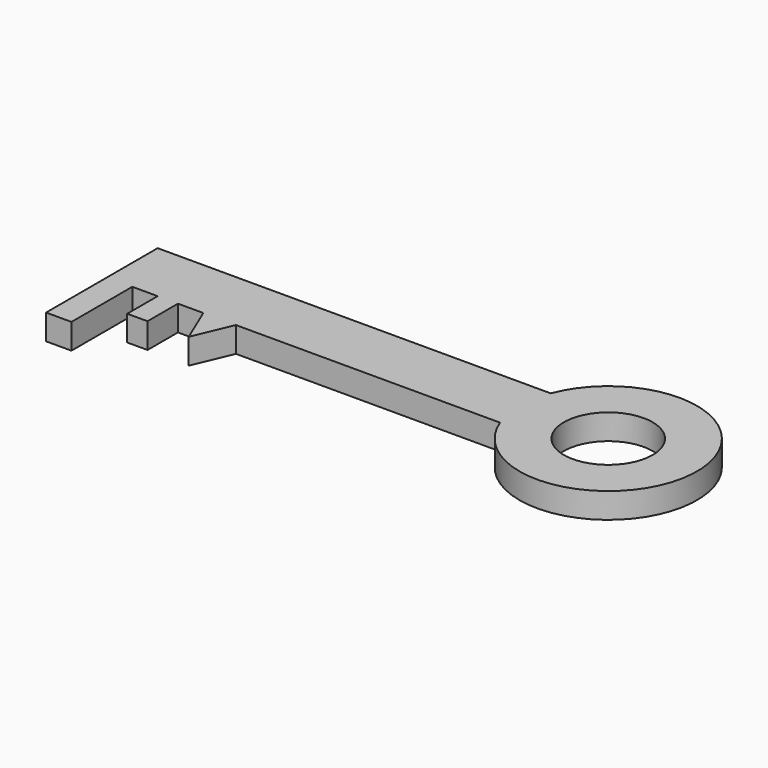
from build123d import *

# Parameters (mm, degrees)
F0_R     = 17.5
F1_DEPTH = 10


with BuildPart() as f1:
    # F0 (on Top) → F1 (new body)
    with BuildSketch(Plane.XY):
        with BuildLine():
            Line((49.705599, 12.375107), (-105.294401, 12.375107))
            Line((-105.294401, 12.375107), (-105.294401, -12.624893))
            Line((-105.294401, -12.624893), (-105.294401, -42.624893))
            Line((-105.294401, -42.624893), (-95.294401, -42.624893))
            Line((-95.294401, -42.624893), (-95.294401, -12.624893))
            Line((-95.294401, -12.624893), (-85.294401, -12.624893))
            Line((-85.294401, -12.624893), (-85.294401, -27.624893))
            Line((-85.294401, -27.624893), (-77.294401, -27.624893))
            Line((-77.294401, -27.624893), (-77.294401, -12.624893))
            Line((-77.294401, -12.624893), (-67.294401, -12.624893))
            Line((-67.294401, -12.624893), (-60.865415, -27.878416))
            Line((-60.865415, -27.878416), (-54.43643, -12.624893))
            Line((-54.43643, -12.624893), (49.705599, -12.624893))
            ThreePointArc((49.705599, -12.624893), (117.397341, -0.124893), (49.705599, 12.375107))
        make_face()
        with Locations((82.397341, -0.124893)):
            Circle(F0_R, mode=Mode.SUBTRACT)
    extrude(amount=F1_DEPTH)


solid = f1.part
